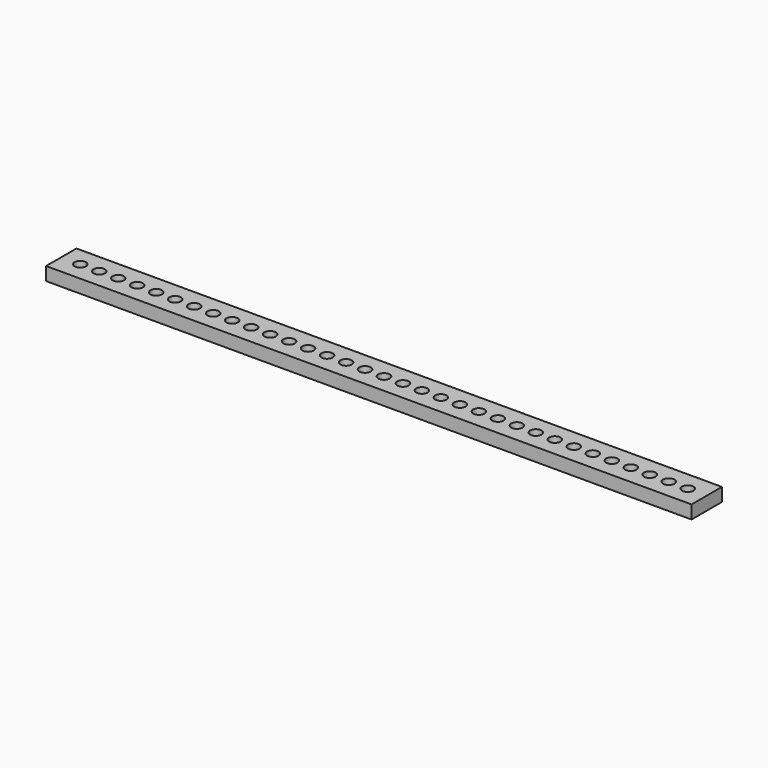
from build123d import *

# Parameters (mm, degrees)
F0_W     = 170
F0_H     = 10
F0_R     = 1.5
F1_DEPTH = 3.5


with BuildPart() as f1:
    # F0 (on Top) → F1 (new body)
    with BuildSketch(Plane.XY):
        Rectangle(F0_W, F0_H)
        with Locations((-80, 0)):
            Circle(F0_R, mode=Mode.SUBTRACT)
        with Locations((-75, 0)):
            Circle(F0_R, mode=Mode.SUBTRACT)
        with Locations((-70, 0)):
            Circle(F0_R, mode=Mode.SUBTRACT)
        with Locations((-65, 0)):
            Circle(F0_R, mode=Mode.SUBTRACT)
        with Locations((-60, 0)):
            Circle(F0_R, mode=Mode.SUBTRACT)
        with Locations((-55, 0)):
            Circle(F0_R, mode=Mode.SUBTRACT)
        with Locations((-50, 0)):
            Circle(F0_R, mode=Mode.SUBTRACT)
        with Locations((-45, 0)):
            Circle(F0_R, mode=Mode.SUBTRACT)
        with Locations((-40, 0)):
            Circle(F0_R, mode=Mode.SUBTRACT)
        with Locations((-35, 0)):
            Circle(F0_R, mode=Mode.SUBTRACT)
        with Locations((-30, 0)):
            Circle(F0_R, mode=Mode.SUBTRACT)
        with Locations((-25, 0)):
            Circle(F0_R, mode=Mode.SUBTRACT)
        with Locations((-20, 0)):
            Circle(F0_R, mode=Mode.SUBTRACT)
        with Locations((-15, 0)):
            Circle(F0_R, mode=Mode.SUBTRACT)
        with Locations((-10, 0)):
            Circle(F0_R, mode=Mode.SUBTRACT)
        with Locations((-5, 0)):
            Circle(F0_R, mode=Mode.SUBTRACT)
        Circle(F0_R, mode=Mode.SUBTRACT)
        with Locations((5, 0)):
            Circle(F0_R, mode=Mode.SUBTRACT)
        with Locations((10, 0)):
            Circle(F0_R, mode=Mode.SUBTRACT)
        with Locations((15, 0)):
            Circle(F0_R, mode=Mode.SUBTRACT)
        with Locations((20, 0)):
            Circle(F0_R, mode=Mode.SUBTRACT)
        with Locations((25, 0)):
            Circle(F0_R, mode=Mode.SUBTRACT)
        with Locations((30, 0)):
            Circle(F0_R, mode=Mode.SUBTRACT)
        with Locations((35, 0)):
            Circle(F0_R, mode=Mode.SUBTRACT)
        with Locations((40, 0)):
            Circle(F0_R, mode=Mode.SUBTRACT)
        with Locations((45, 0)):
            Circle(F0_R, mode=Mode.SUBTRACT)
        with Locations((50, 0)):
            Circle(F0_R, mode=Mode.SUBTRACT)
        with Locations((55, 0)):
            Circle(F0_R, mode=Mode.SUBTRACT)
        with Locations((60, 0)):
            Circle(F0_R, mode=Mode.SUBTRACT)
        with Locations((65, 0)):
            Circle(F0_R, mode=Mode.SUBTRACT)
        with Locations((70, 0)):
            Circle(F0_R, mode=Mode.SUBTRACT)
        with Locations((75, 0)):
            Circle(F0_R, mode=Mode.SUBTRACT)
        with Locations((80, 0)):
            Circle(F0_R, mode=Mode.SUBTRACT)
    extrude(amount=F1_DEPTH)


solid = f1.part
